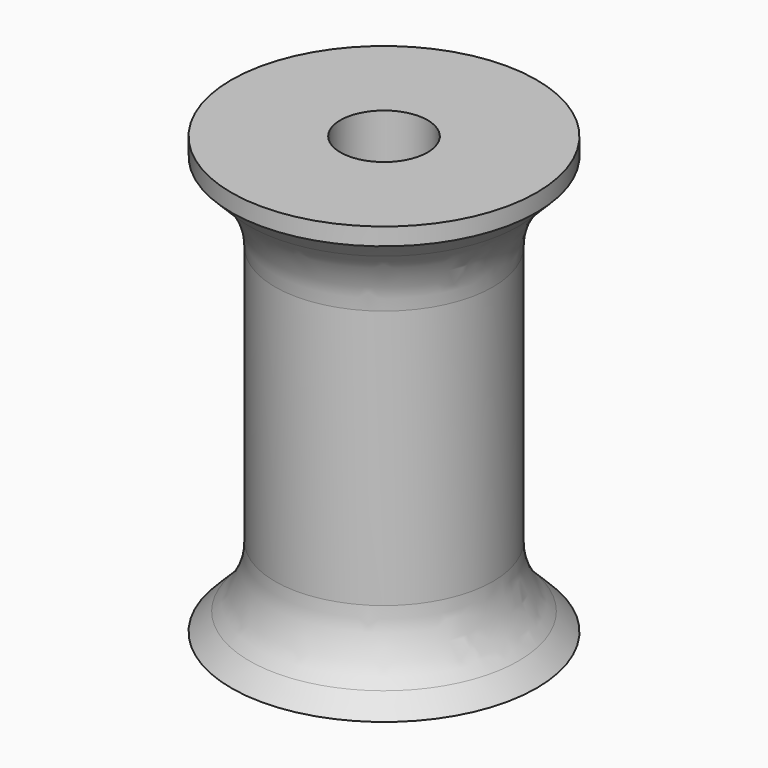
from build123d import *

# Parameters (mm, degrees)
F2_R = 5.08


with BuildPart() as f1:
    # F0 (on Front) → F1 (revolve)
    with BuildSketch(Plane.XZ):
        Polygon((2.54, 25.4), (2.54, 0), (8.89, 0), (6.35, 2.54), (6.35, 21.844), (8.89, 24.384), (8.89, 25.4), align=None)
    revolve(axis=Axis((0, 0, 18.663038), (0, 0, 1)))

    # F2
    f2_edges = [f1.edges().sort_by_distance(p)[0] for p in [
        (-6.35, 0, 21.844),
        (-6.35, 0, 2.54),
    ]]
    fillet(f2_edges, radius=F2_R)


solid = f1.part
